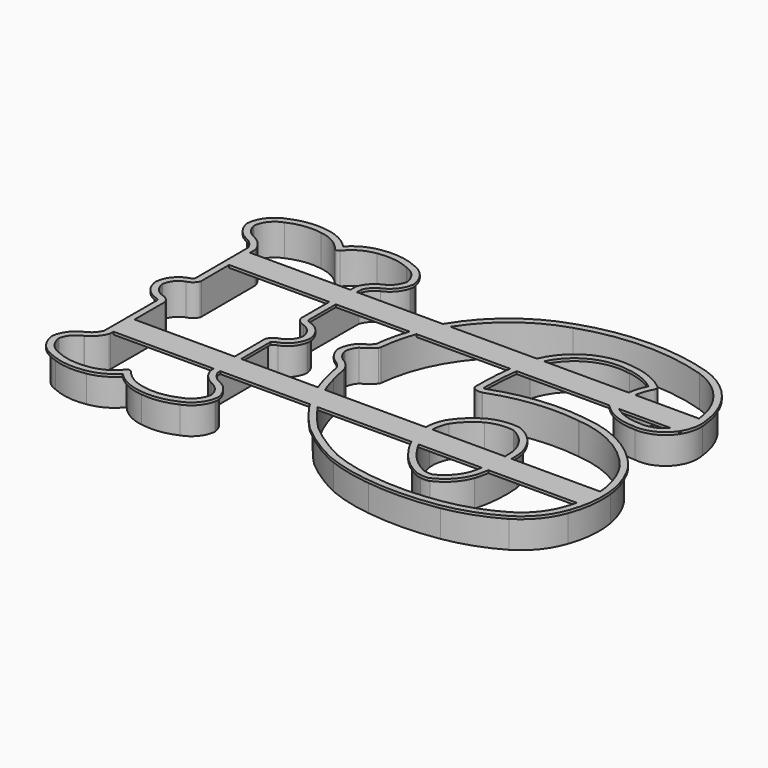
from build123d import *

# Parameters (mm, degrees)
BOX_W            = 173
BOX_H            = 10
BOX_DEPTH        = 1
BOX001_W         = 180
BOX001_H         = 10
BOX001_DEPTH     = 1
EXTRUDE_DEPTH    = 12
EXTRUDE001_DEPTH = 1


with BuildPart() as box:
    # Box → Box (new body)
    with BuildSketch(Plane(origin=(-85, 22, -1), x_dir=(1, 0, 0), z_dir=(0, 0, 1))):
        with Locations((86.5, 5)):
            Rectangle(BOX_W, BOX_H)
    extrude(amount=BOX_DEPTH)


with BuildPart() as box001:
    # Box001 → Box001 (new body)
    with BuildSketch(Plane(origin=(-85, -33, -1), x_dir=(1, 0, 0), z_dir=(0, 0, 1))):
        with Locations((90, 5)):
            Rectangle(BOX001_W, BOX001_H)
    extrude(amount=BOX001_DEPTH)


with BuildPart() as thin_wall:
    # Offset2D → Extrude (new body)
    with BuildSketch(Plane(origin=(-64.42601, 0, 0), x_dir=(0, 1, 0), z_dir=(0, 0, 1))):
        with BuildLine():
            ThreePointArc((34.44195, -20.33115), (37.326746, -22.045265), (39.397914, -24.685436))
            ThreePointArc((39.397914, -24.685436), (42.134283, -28.436695), (46.370136, -30.33859))
            ThreePointArc((46.370136, -30.33859), (51.522855, -28.261449), (54.75564, -23.74325))
            ThreePointArc((54.75564, -23.74325), (56.629485, -17.231752), (56.451589, -10.458328))
            ThreePointArc((56.451589, -10.458328), (54.510608, -4.646316), (50.515781, 0))
            ThreePointArc((50.515781, 0), (54.510608, 4.646316), (56.451589, 10.458328))
            ThreePointArc((56.451589, 10.458328), (56.629485, 17.231751), (54.75564, 23.74325))
            ThreePointArc((54.75564, 23.74325), (51.522855, 28.261449), (46.370136, 30.33859))
            ThreePointArc((46.370136, 30.33859), (42.134283, 28.436695), (39.397914, 24.685436))
            ThreePointArc((39.397914, 24.685436), (37.326746, 22.045265), (34.44195, 20.33115))
            Line((34.44195, 20.33115), (8.720118, 20.269909))
            ThreePointArc((8.720118, 20.269909), (7.488615, 21.254255), (6.831381, 22.687286))
            ThreePointArc((6.831381, 22.687286), (4.220712, 26.404715), (0, 28.084138))
            ThreePointArc((0, 28.084138), (-4.220712, 26.404715), (-6.831381, 22.687286))
            ThreePointArc((-6.831381, 22.687286), (-7.488615, 21.254255), (-8.720118, 20.269909))
            Line((-8.720118, 20.269909), (-34.44195, 20.33115))
            ThreePointArc((-34.44195, 20.33115), (-37.326746, 22.045265), (-39.397915, 24.685436))
            ThreePointArc((-39.397915, 24.685436), (-42.134283, 28.436695), (-46.370136, 30.33859))
            ThreePointArc((-46.370136, 30.33859), (-51.522855, 28.261449), (-54.75564, 23.74325))
            ThreePointArc((-54.75564, 23.74325), (-56.629485, 17.231751), (-56.451589, 10.458328))
            ThreePointArc((-56.451589, 10.458328), (-54.510608, 4.646316), (-50.515781, 0))
            ThreePointArc((-50.515781, 0), (-54.510608, -4.646316), (-56.451589, -10.458328))
            ThreePointArc((-56.451589, -10.458328), (-56.629485, -17.231752), (-54.75564, -23.74325))
            ThreePointArc((-54.75564, -23.74325), (-51.522855, -28.261449), (-46.370136, -30.33859))
            ThreePointArc((-46.370136, -30.33859), (-42.134283, -28.436695), (-39.397915, -24.685436))
            ThreePointArc((-39.397915, -24.685436), (-37.326746, -22.045265), (-34.44195, -20.33115))
            Line((-34.44195, -20.33115), (-8.720118, -20.269909))
            ThreePointArc((-8.720118, -20.269909), (-7.488615, -21.254255), (-6.831381, -22.687286))
            ThreePointArc((-6.831381, -22.687286), (-4.220711, -26.404715), (0, -28.084138))
            ThreePointArc((0, -28.084138), (4.220711, -26.404715), (6.831381, -22.687286))
            ThreePointArc((6.831381, -22.687286), (7.488615, -21.254254), (8.720119, -20.269909))
            Line((8.720119, -20.269909), (34.44195, -20.33115))
        make_face()
        with BuildLine():
            ThreePointArc((40.506381, -24.107679), (38.151788, -21.106219), (34.872227, -19.157539))
            ThreePointArc((34.872227, -19.157539), (34.661918, -19.100656), (34.444926, -19.081153))
            Line((34.444926, -19.081153), (8.723095, -19.019912))
            ThreePointArc((8.723095, -19.019912), (8.448125, -19.04986), (8.186472, -19.139545))
            ThreePointArc((8.186472, -19.139545), (6.530874, -20.45011), (5.623524, -22.356756))
            ThreePointArc((5.623524, -22.356756), (3.46238, -25.410751), (0, -26.828267))
            ThreePointArc((0, -26.828267), (-3.46238, -25.410751), (-5.623524, -22.356756))
            ThreePointArc((-5.623524, -22.356756), (-6.530874, -20.45011), (-8.186471, -19.139546))
            ThreePointArc((-8.186471, -19.139546), (-8.448124, -19.04986), (-8.723094, -19.019912))
            Line((-8.723094, -19.019912), (-34.444926, -19.081153))
            ThreePointArc((-34.444926, -19.081153), (-34.661918, -19.100656), (-34.872227, -19.157539))
            ThreePointArc((-34.872227, -19.157539), (-38.151788, -21.106219), (-40.506381, -24.107679))
            ThreePointArc((-40.506381, -24.107679), (-40.536345, -24.169224), (-40.562896, -24.232317))
            ThreePointArc((-40.562896, -24.232317), (-42.857822, -27.413532), (-46.410382, -29.076698))
            ThreePointArc((-46.410382, -29.076698), (-50.815054, -27.227335), (-53.576274, -23.32901))
            ThreePointArc((-53.576274, -23.32901), (-53.597427, -23.273099), (-53.62123, -23.218263))
            ThreePointArc((-53.62123, -23.218263), (-55.389548, -17.073462), (-55.22167, -10.681486))
            ThreePointArc((-55.22167, -10.681486), (-55.216371, -10.649998), (-55.211879, -10.618386))
            ThreePointArc((-55.211879, -10.618386), (-53.423501, -5.263323), (-49.742753, -0.982307))
            ThreePointArc((-49.742753, -0.982307), (-49.265781, 0), (-49.742753, 0.982307))
            ThreePointArc((-49.742753, 0.982307), (-53.423501, 5.263323), (-55.211879, 10.618386))
            ThreePointArc((-55.211879, 10.618386), (-55.216371, 10.649998), (-55.22167, 10.681486))
            ThreePointArc((-55.22167, 10.681486), (-55.389548, 17.073462), (-53.62123, 23.218263))
            ThreePointArc((-53.62123, 23.218263), (-53.597427, 23.273099), (-53.576274, 23.32901))
            ThreePointArc((-53.576274, 23.32901), (-50.815054, 27.227335), (-46.410382, 29.076698))
            ThreePointArc((-46.410382, 29.076698), (-42.857822, 27.413532), (-40.562896, 24.232317))
            ThreePointArc((-40.562896, 24.232317), (-40.536345, 24.169224), (-40.506381, 24.107679))
            ThreePointArc((-40.506381, 24.107679), (-38.151788, 21.106219), (-34.872227, 19.157539))
            ThreePointArc((-34.872227, 19.157539), (-34.661918, 19.100656), (-34.444926, 19.081153))
            Line((-34.444926, 19.081153), (-8.723094, 19.019913))
            ThreePointArc((-8.723094, 19.019913), (-8.448124, 19.04986), (-8.186471, 19.139546))
            ThreePointArc((-8.186471, 19.139546), (-6.530874, 20.45011), (-5.623524, 22.356756))
            ThreePointArc((-5.623524, 22.356756), (-3.462381, 25.410751), (0, 26.828267))
            ThreePointArc((0, 26.828267), (3.462381, 25.410751), (5.623524, 22.356756))
            ThreePointArc((5.623524, 22.356756), (6.530874, 20.45011), (8.186471, 19.139546))
            ThreePointArc((8.186471, 19.139546), (8.448124, 19.04986), (8.723094, 19.019913))
            Line((8.723094, 19.019913), (34.444926, 19.081153))
            ThreePointArc((34.444926, 19.081153), (34.661918, 19.100656), (34.872227, 19.157539))
            ThreePointArc((34.872227, 19.157539), (38.151788, 21.106219), (40.506381, 24.107679))
            ThreePointArc((40.506381, 24.107679), (40.536345, 24.169224), (40.562896, 24.232317))
            ThreePointArc((40.562896, 24.232317), (42.857822, 27.413532), (46.410382, 29.076698))
            ThreePointArc((46.410382, 29.076698), (50.815054, 27.227335), (53.576274, 23.32901))
            ThreePointArc((53.576274, 23.32901), (53.597427, 23.273099), (53.62123, 23.218263))
            ThreePointArc((53.62123, 23.218263), (55.389548, 17.073462), (55.22167, 10.681486))
            ThreePointArc((55.22167, 10.681486), (55.216371, 10.649998), (55.211879, 10.618386))
            ThreePointArc((55.211879, 10.618386), (53.423501, 5.263323), (49.742753, 0.982307))
            ThreePointArc((49.742753, 0.982307), (49.265781, 0), (49.742753, -0.982307))
            ThreePointArc((49.742753, -0.982307), (53.423501, -5.263323), (55.211879, -10.618386))
            ThreePointArc((55.211879, -10.618386), (55.216371, -10.649998), (55.22167, -10.681486))
            ThreePointArc((55.22167, -10.681486), (55.389548, -17.073462), (53.62123, -23.218263))
            ThreePointArc((53.62123, -23.218263), (53.597427, -23.273099), (53.576274, -23.32901))
            ThreePointArc((53.576274, -23.32901), (50.815054, -27.227335), (46.410382, -29.076698))
            ThreePointArc((46.410382, -29.076698), (42.857822, -27.413532), (40.562896, -24.232317))
            ThreePointArc((40.562896, -24.232317), (40.536345, -24.169224), (40.506381, -24.107679))
        make_face(mode=Mode.SUBTRACT)
        with BuildLine():
            ThreePointArc((5.514971, -43.551434), (2.957715, -41.918048), (0, -41.240237))
            ThreePointArc((0, -41.240237), (-3.343564, -42.631595), (-5.808735, -45.28456))
            ThreePointArc((-5.808735, -45.28456), (-7.542924, -47.276424), (-9.871154, -48.52313))
            ThreePointArc((-9.871154, -48.52313), (-13.145107, -49.139081), (-16.376197, -49.950385))
            ThreePointArc((-16.376197, -49.950385), (-25.914654, -53.306642), (-34.710733, -58.29419))
            ThreePointArc((-34.710733, -58.29419), (-39.666336, -62.112473), (-44.306226, -66.308747))
            ThreePointArc((-44.306226, -66.308747), (-49.913506, -73.791926), (-54.516447, -81.931489))
            ThreePointArc((-54.516447, -81.931489), (-57.238473, -90.187298), (-58.853068, -98.729012))
            ThreePointArc((-58.853068, -98.729012), (-59.622042, -112.205108), (-58.41392, -125.648951))
            ThreePointArc((-58.41392, -125.648951), (-55.738154, -136.129959), (-51.222842, -145.95967))
            ThreePointArc((-51.222842, -145.95967), (-45.276603, -152.84887), (-37.290762, -157.21295))
            ThreePointArc((-37.290762, -157.21295), (-28.299977, -159.218241), (-19.09514, -158.862755))
            ThreePointArc((-19.09514, -158.862755), (-12.271791, -156.868215), (-5.985813, -153.548162))
            ThreePointArc((-5.985813, -153.548162), (4.949402, -140.840662), (9.82007, -124.798964))
            ThreePointArc((9.82007, -124.798964), (10.080296, -107.471052), (6.069544, -90.61169))
            ThreePointArc((6.069544, -90.61169), (6.089355, -89.35398), (6.572424, -88.19257))
            ThreePointArc((6.572424, -88.19257), (17.62463, -88.610946), (28.578199, -90.142497))
            ThreePointArc((28.578199, -90.142497), (41.444393, -99.454234), (44.737935, -114.991286))
            ThreePointArc((44.737935, -114.991286), (42.998519, -122.234358), (39.190359, -128.636357))
            ThreePointArc((39.190359, -128.636357), (31.023674, -126.032255), (22.489372, -126.833366))
            ThreePointArc((22.489372, -126.833366), (18.688263, -132.441672), (17.363273, -139.085912))
            ThreePointArc((17.363273, -139.085912), (21.102119, -149.846355), (32.06971, -152.924998))
            ThreePointArc((32.06971, -152.924998), (46.72935, -147.019587), (55.892228, -134.142453))
            ThreePointArc((55.892228, -134.142453), (59.506872, -109.818394), (55.3554, -85.580185))
            ThreePointArc((55.3554, -85.580185), (37.785771, -59.802647), (8.904615, -48.010609))
            ThreePointArc((8.904615, -48.010609), (6.977576, -45.957541), (5.514971, -43.551434))
        make_face()
        with BuildLine():
            ThreePointArc((0.080059, -42.497772), (2.435881, -43.054812), (4.498998, -44.321202))
            ThreePointArc((4.498998, -44.321202), (6.061787, -46.81742), (8.086724, -48.955888))
            ThreePointArc((8.086724, -48.955888), (8.412976, -49.159865), (8.78581, -49.25495))
            ThreePointArc((8.78581, -49.25495), (36.999696, -60.774545), (54.163396, -85.956519))
            ThreePointArc((54.163396, -85.956519), (54.167686, -85.969844), (54.172124, -85.983121))
            ThreePointArc((54.172124, -85.983121), (58.256852, -109.823511), (54.705576, -133.74918))
            ThreePointArc((54.705576, -133.74918), (45.948688, -146.043297), (31.947101, -151.681025))
            ThreePointArc((31.947101, -151.681025), (31.879239, -151.689595), (31.811947, -151.701863))
            ThreePointArc((31.811947, -151.701863), (21.95875, -148.936035), (18.599801, -139.268939))
            ThreePointArc((18.599801, -139.268939), (18.610017, -139.176073), (18.613269, -139.082703))
            ThreePointArc((18.613269, -139.082703), (19.783038, -133.06555), (23.1483, -127.942123))
            ThreePointArc((23.1483, -127.942123), (31.042778, -127.292173), (38.580342, -129.727402))
            ThreePointArc((38.580342, -129.727402), (39.422689, -129.864576), (40.156735, -129.429211))
            ThreePointArc((40.156735, -129.429211), (44.147813, -122.726422), (45.979447, -115.143467))
            ThreePointArc((45.979447, -115.143467), (42.479719, -98.753447), (28.898057, -88.934113))
            ThreePointArc((28.898057, -88.934113), (28.856003, -88.923757), (28.813614, -88.914865))
            ThreePointArc((28.813614, -88.914865), (17.73496, -87.365825), (6.556542, -86.942671))
            ThreePointArc((6.556542, -86.942671), (5.973072, -87.09563), (5.529163, -87.504016))
            ThreePointArc((5.529163, -87.504016), (4.865518, -89.099572), (4.838301, -90.827426))
            ThreePointArc((4.838301, -90.827426), (4.863391, -90.939858), (4.898724, -91.049503))
            ThreePointArc((4.898724, -91.049503), (8.837751, -107.607366), (8.582179, -124.6254))
            ThreePointArc((8.582179, -124.6254), (8.578055, -124.657901), (8.574785, -124.690499))
            ThreePointArc((8.574785, -124.690499), (3.863924, -140.220443), (-6.711972, -152.529862))
            ThreePointArc((-6.711972, -152.529862), (-12.755782, -155.715608), (-19.313548, -157.631941))
            ThreePointArc((-19.313548, -157.631941), (-28.192081, -157.972896), (-36.863937, -156.03808))
            ThreePointArc((-36.863937, -156.03808), (-36.880211, -156.032294), (-36.896562, -156.026735))
            ThreePointArc((-36.896562, -156.026735), (-44.488306, -151.878766), (-50.142353, -145.331098))
            ThreePointArc((-50.142353, -145.331098), (-54.561071, -135.709256), (-57.179813, -125.450255))
            ThreePointArc((-57.179813, -125.450255), (-57.180143, -125.448218), (-57.180476, -125.446182))
            ThreePointArc((-57.180476, -125.446182), (-58.372208, -112.184719), (-57.613666, -98.891442))
            ThreePointArc((-57.613666, -98.891442), (-57.612922, -98.885662), (-57.612206, -98.879878))
            ThreePointArc((-57.612206, -98.879878), (-56.033321, -90.51978), (-53.373117, -82.438478))
            ThreePointArc((-53.373117, -82.438478), (-48.87104, -74.481721), (-43.392154, -67.163217))
            ThreePointArc((-43.392154, -67.163217), (-38.846691, -63.056539), (-33.993786, -59.318178))
            ThreePointArc((-33.993786, -59.318178), (-25.393323, -54.442745), (-16.067432, -51.16165))
            ThreePointArc((-16.067432, -51.16165), (-16.05145, -51.157464), (-16.035526, -51.153067))
            ThreePointArc((-16.035526, -51.153067), (-12.877219, -50.360039), (-9.677017, -49.757962))
            ThreePointArc((-9.677017, -49.757962), (-9.582439, -49.739331), (-9.489578, -49.713466))
            ThreePointArc((-9.489578, -49.713466), (-6.763724, -48.253842), (-4.733363, -45.9218))
            ThreePointArc((-4.733363, -45.9218), (-4.733334, -45.921752), (-4.733306, -45.921703))
            ThreePointArc((-4.733306, -45.921703), (-2.689412, -43.699729), (0.080059, -42.497772))
        make_face(mode=Mode.SUBTRACT)
        with BuildLine():
            ThreePointArc((-18.737257, -122.920742), (-11.689584, -119.745706), (-7.035652, -113.573879))
            ThreePointArc((-7.035652, -113.573879), (-6.980276, -108.138765), (-8.565392, -102.939636))
            ThreePointArc((-8.565392, -102.939636), (-11.925547, -98.37556), (-16.262675, -94.727169))
            ThreePointArc((-16.262675, -94.727169), (-20.280659, -93.3008), (-24.540961, -93.131851))
            ThreePointArc((-24.540961, -93.131851), (-31.392517, -94.964227), (-37.586884, -98.41839))
            ThreePointArc((-37.586884, -98.41839), (-42.724247, -102.83945), (-46.44076, -108.507413))
            ThreePointArc((-46.44076, -108.507413), (-46.779949, -110.442144), (-46.792858, -112.40634))
            ThreePointArc((-46.792858, -112.40634), (-42.843484, -118.000904), (-36.922913, -121.442351))
            ThreePointArc((-36.922913, -121.442351), (-27.895974, -122.992046), (-18.737257, -122.920742))
        make_face()
        with BuildLine():
            ThreePointArc((-8.245906, -113.226345), (-12.508322, -118.79976), (-18.905853, -121.681206))
            ThreePointArc((-18.905853, -121.681206), (-27.801994, -121.745562), (-36.570489, -120.242581))
            ThreePointArc((-36.570489, -120.242581), (-41.935454, -117.137138), (-45.560162, -112.10841))
            ThreePointArc((-45.560162, -112.10841), (-45.530917, -110.510238), (-45.26004, -108.934916))
            ThreePointArc((-45.26004, -108.934916), (-41.746179, -103.620138), (-36.911621, -99.470303))
            ThreePointArc((-36.911621, -99.470303), (-36.879509, -99.448983), (-36.84807, -99.426683))
            ThreePointArc((-36.84807, -99.426683), (-30.930843, -96.125877), (-24.386074, -94.372337))
            ThreePointArc((-24.386074, -94.372337), (-20.536247, -94.52456), (-16.90171, -95.803029))
            ThreePointArc((-16.90171, -95.803029), (-12.832779, -99.235492), (-9.673391, -103.519913))
            ThreePointArc((-9.673391, -103.519913), (-8.225054, -108.265095), (-8.245906, -113.226345))
        make_face(mode=Mode.SUBTRACT)
    extrude(amount=-EXTRUDE_DEPTH)

    # Fusion: union Box, Box001
    add(box.part)
    add(box001.part)


with BuildPart() as cutter:
    # Offset2D001 → Extrude001 (new body)
    with BuildSketch(Plane(origin=(-64.42601, 0, 0), x_dir=(0, 1, 0), z_dir=(0, 0, 1))):
        with BuildLine():
            ThreePointArc((34.210214, -21.580601), (36.557342, -23.03366), (38.259731, -25.206736))
            ThreePointArc((38.259731, -25.206736), (41.375523, -29.430659), (46.167603, -31.572073))
            ThreePointArc((46.167603, -31.572073), (46.330873, -31.587973), (46.49482, -31.582356))
            ThreePointArc((46.49482, -31.582356), (52.271708, -29.262718), (55.91471, -24.214779))
            ThreePointArc((55.91471, -24.214779), (57.871134, -17.376599), (57.687159, -10.266434))
            ThreePointArc((57.687159, -10.266434), (55.947672, -4.677987), (52.430145, 0))
            ThreePointArc((52.430145, 0), (55.947672, 4.677987), (57.687159, 10.266434))
            ThreePointArc((57.687159, 10.266434), (57.871134, 17.376599), (55.91471, 24.214779))
            ThreePointArc((55.91471, 24.214779), (52.271708, 29.262718), (46.49482, 31.582356))
            ThreePointArc((46.49482, 31.582356), (46.330873, 31.587973), (46.167603, 31.572073))
            ThreePointArc((46.167603, 31.572073), (41.375523, 29.430659), (38.259731, 25.206736))
            ThreePointArc((38.259731, 25.206736), (36.557342, 23.03366), (34.210214, 21.580601))
            Line((34.210214, 21.580601), (9.033034, 21.520658))
            ThreePointArc((9.033034, 21.520658), (8.3991, 22.125166), (8.057259, 22.93167))
            ThreePointArc((8.057259, 22.93167), (8.039512, 23.008096), (8.017006, 23.083258))
            ThreePointArc((8.017006, 23.083258), (4.99559, 27.385563), (0.110818, 29.329216))
            ThreePointArc((0.110818, 29.329216), (0, 29.334138), (-0.110818, 29.329216))
            ThreePointArc((-0.110818, 29.329216), (-4.99559, 27.385563), (-8.017006, 23.083258))
            ThreePointArc((-8.017006, 23.083258), (-8.039512, 23.008096), (-8.057259, 22.93167))
            ThreePointArc((-8.057259, 22.93167), (-8.3991, 22.125166), (-9.033034, 21.520658))
            Line((-9.033034, 21.520658), (-34.210214, 21.580601))
            ThreePointArc((-34.210214, 21.580601), (-36.557342, 23.03366), (-38.259731, 25.206736))
            ThreePointArc((-38.259731, 25.206736), (-41.375523, 29.430659), (-46.167603, 31.572073))
            ThreePointArc((-46.167603, 31.572073), (-46.330873, 31.587973), (-46.49482, 31.582356))
            ThreePointArc((-46.49482, 31.582356), (-52.271708, 29.262718), (-55.91471, 24.214779))
            ThreePointArc((-55.91471, 24.214779), (-57.871134, 17.376599), (-57.687159, 10.266434))
            ThreePointArc((-57.687159, 10.266434), (-55.947672, 4.677987), (-52.430145, 0))
            ThreePointArc((-52.430145, 0), (-55.947672, -4.677987), (-57.687159, -10.266434))
            ThreePointArc((-57.687159, -10.266434), (-57.871134, -17.376599), (-55.91471, -24.214779))
            ThreePointArc((-55.91471, -24.214779), (-52.271708, -29.262718), (-46.49482, -31.582356))
            ThreePointArc((-46.49482, -31.582356), (-46.330873, -31.587973), (-46.167603, -31.572073))
            ThreePointArc((-46.167603, -31.572073), (-41.375523, -29.430659), (-38.259731, -25.206736))
            ThreePointArc((-38.259731, -25.206736), (-36.557342, -23.03366), (-34.210214, -21.580601))
            Line((-34.210214, -21.580601), (-9.033034, -21.520657))
            ThreePointArc((-9.033034, -21.520657), (-8.399099, -22.125166), (-8.057259, -22.93167))
            ThreePointArc((-8.057259, -22.93167), (-8.039512, -23.008096), (-8.017006, -23.083258))
            ThreePointArc((-8.017006, -23.083258), (-4.99559, -27.385563), (-0.110818, -29.329216))
            ThreePointArc((-0.110818, -29.329216), (0, -29.334138), (0.110818, -29.329216))
            ThreePointArc((0.110818, -29.329216), (4.99559, -27.385563), (8.017006, -23.083258))
            ThreePointArc((8.017006, -23.083258), (8.039512, -23.008096), (8.057259, -22.93167))
            ThreePointArc((8.057259, -22.93167), (8.3991, -22.125166), (9.033034, -21.520657))
            Line((9.033034, -21.520657), (34.210214, -21.580601))
        make_face()
        with BuildLine():
            ThreePointArc((39.397914, -24.685436), (37.326746, -22.045265), (34.44195, -20.33115))
            Line((34.44195, -20.33115), (8.720119, -20.269909))
            ThreePointArc((8.720119, -20.269909), (7.488615, -21.254254), (6.831381, -22.687286))
            ThreePointArc((6.831381, -22.687286), (4.220711, -26.404715), (0, -28.084138))
            ThreePointArc((0, -28.084138), (-4.220711, -26.404715), (-6.831381, -22.687286))
            ThreePointArc((-6.831381, -22.687286), (-7.488615, -21.254255), (-8.720118, -20.269909))
            Line((-8.720118, -20.269909), (-34.44195, -20.33115))
            ThreePointArc((-34.44195, -20.33115), (-37.326746, -22.045265), (-39.397915, -24.685436))
            ThreePointArc((-39.397915, -24.685436), (-42.134283, -28.436695), (-46.370136, -30.33859))
            ThreePointArc((-46.370136, -30.33859), (-51.522855, -28.261449), (-54.75564, -23.74325))
            ThreePointArc((-54.75564, -23.74325), (-56.629485, -17.231752), (-56.451589, -10.458328))
            ThreePointArc((-56.451589, -10.458328), (-54.510608, -4.646316), (-50.515781, 0))
            ThreePointArc((-50.515781, 0), (-54.510608, 4.646316), (-56.451589, 10.458328))
            ThreePointArc((-56.451589, 10.458328), (-56.629485, 17.231751), (-54.75564, 23.74325))
            ThreePointArc((-54.75564, 23.74325), (-51.522855, 28.261449), (-46.370136, 30.33859))
            ThreePointArc((-46.370136, 30.33859), (-42.134283, 28.436695), (-39.397915, 24.685436))
            ThreePointArc((-39.397915, 24.685436), (-37.326746, 22.045265), (-34.44195, 20.33115))
            Line((-34.44195, 20.33115), (-8.720118, 20.269909))
            ThreePointArc((-8.720118, 20.269909), (-7.488615, 21.254255), (-6.831381, 22.687286))
            ThreePointArc((-6.831381, 22.687286), (-4.220712, 26.404715), (0, 28.084138))
            ThreePointArc((0, 28.084138), (4.220712, 26.404715), (6.831381, 22.687286))
            ThreePointArc((6.831381, 22.687286), (7.488615, 21.254255), (8.720118, 20.269909))
            Line((8.720118, 20.269909), (34.44195, 20.33115))
            ThreePointArc((34.44195, 20.33115), (37.326746, 22.045265), (39.397914, 24.685436))
            ThreePointArc((39.397914, 24.685436), (42.134283, 28.436695), (46.370136, 30.33859))
            ThreePointArc((46.370136, 30.33859), (51.522855, 28.261449), (54.75564, 23.74325))
            ThreePointArc((54.75564, 23.74325), (56.629485, 17.231751), (56.451589, 10.458328))
            ThreePointArc((56.451589, 10.458328), (54.510608, 4.646316), (50.515781, 0))
            ThreePointArc((50.515781, 0), (54.510608, -4.646316), (56.451589, -10.458328))
            ThreePointArc((56.451589, -10.458328), (56.629485, -17.231752), (54.75564, -23.74325))
            ThreePointArc((54.75564, -23.74325), (51.522855, -28.261449), (46.370136, -30.33859))
            ThreePointArc((46.370136, -30.33859), (42.134283, -28.436695), (39.397914, -24.685436))
        make_face(mode=Mode.SUBTRACT)
        with BuildLine():
            ThreePointArc((6.357808, -42.628327), (3.440851, -40.765191), (0.067107, -39.99204))
            ThreePointArc((0.067107, -39.99204), (-0.079167, -39.992747), (-0.224357, -40.010537))
            ThreePointArc((-0.224357, -40.010537), (-4.05764, -41.605634), (-6.883957, -44.647067))
            ThreePointArc((-6.883957, -44.647067), (-8.286314, -46.270235), (-10.165737, -47.304182))
            ThreePointArc((-10.165737, -47.304182), (-13.454585, -47.927266), (-16.700969, -48.743202))
            ThreePointArc((-16.700969, -48.743202), (-26.439936, -52.172338), (-35.421229, -57.265747))
            ThreePointArc((-35.421229, -57.265747), (-35.427675, -57.27023), (-35.434093, -57.274754))
            ThreePointArc((-35.434093, -57.274754), (-40.467647, -61.153097), (-45.180521, -65.415378))
            ThreePointArc((-45.180521, -65.415378), (-45.219365, -65.455122), (-45.256405, -65.496553))
            ThreePointArc((-45.256405, -65.496553), (-50.95986, -73.108082), (-55.641751, -81.387254))
            ThreePointArc((-55.641751, -81.387254), (-55.659133, -81.424764), (-55.675264, -81.462828))
            ThreePointArc((-55.675264, -81.462828), (-58.448059, -89.872005), (-60.093226, -98.572354))
            ThreePointArc((-60.093226, -98.572354), (-60.871845, -112.227376), (-59.647699, -125.849688))
            ThreePointArc((-59.647699, -125.849688), (-56.916135, -136.548124), (-52.307038, -146.581777))
            ThreePointArc((-52.307038, -146.581777), (-52.303337, -146.588183), (-52.299599, -146.594567))
            ThreePointArc((-52.299599, -146.594567), (-46.068783, -153.815835), (-37.701407, -158.393694))
            ThreePointArc((-37.701407, -158.393694), (-28.40428, -160.46391), (-18.88659, -160.095235))
            ThreePointArc((-18.88659, -160.095235), (-18.87674, -160.093527), (-18.866905, -160.091741))
            ThreePointArc((-18.866905, -160.091741), (-11.80216, -158.026639), (-5.293797, -154.589129))
            ThreePointArc((-5.293797, -154.589129), (-5.260019, -154.565867), (-5.227023, -154.541508))
            ThreePointArc((-5.227023, -154.541508), (6.03685, -141.457282), (11.06249, -124.940177))
            ThreePointArc((11.06249, -124.940177), (11.328114, -107.382954), (7.285671, -90.295376))
            ThreePointArc((7.285671, -90.295376), (7.276512, -89.861695), (7.356907, -89.435433))
            ThreePointArc((7.356907, -89.435433), (17.87523, -89.888659), (28.299728, -91.361881))
            ThreePointArc((28.299728, -91.361881), (40.408158, -100.153664), (43.503668, -114.793586))
            ThreePointArc((43.503668, -114.793586), (43.497229, -114.839135), (43.492471, -114.884889))
            ThreePointArc((43.492471, -114.884889), (42.026913, -121.290682), (38.851665, -127.043929))
            ThreePointArc((38.851665, -127.043929), (30.623735, -124.738193), (22.126269, -125.637266))
            ThreePointArc((22.126269, -125.637266), (21.851814, -125.758182), (21.614061, -125.940992))
            ThreePointArc((21.614061, -125.940992), (17.553114, -131.916361), (16.113274, -138.996133))
            ThreePointArc((16.113274, -138.996133), (20.254533, -150.76518), (32.259545, -154.162266))
            ThreePointArc((32.259545, -154.162266), (47.529792, -147.980256), (57.073258, -134.551928))
            ThreePointArc((57.073258, -134.551928), (57.078803, -134.535569), (57.084123, -134.519134))
            ThreePointArc((57.084123, -134.519134), (60.756872, -109.811564), (56.54318, -85.190478))
            ThreePointArc((56.54318, -85.190478), (38.726249, -58.95609), (9.433177, -46.806928))
            ThreePointArc((9.433177, -46.806928), (7.856543, -45.045757), (6.644625, -43.016287))
            ThreePointArc((6.644625, -43.016287), (6.520112, -42.808337), (6.357808, -42.628327))
        make_face()
        with BuildLine():
            ThreePointArc((0, -41.240237), (2.957715, -41.918048), (5.514971, -43.551434))
            ThreePointArc((5.514971, -43.551434), (6.977576, -45.957541), (8.904615, -48.010609))
            ThreePointArc((8.904615, -48.010609), (37.785771, -59.802647), (55.3554, -85.580185))
            ThreePointArc((55.3554, -85.580185), (59.506872, -109.818394), (55.892228, -134.142453))
            ThreePointArc((55.892228, -134.142453), (46.72935, -147.019587), (32.06971, -152.924998))
            ThreePointArc((32.06971, -152.924998), (21.102119, -149.846355), (17.363273, -139.085912))
            ThreePointArc((17.363273, -139.085912), (18.688263, -132.441672), (22.489372, -126.833366))
            ThreePointArc((22.489372, -126.833366), (31.023674, -126.032255), (39.190359, -128.636357))
            ThreePointArc((39.190359, -128.636357), (42.998519, -122.234358), (44.737935, -114.991286))
            ThreePointArc((44.737935, -114.991286), (41.444393, -99.454234), (28.578199, -90.142497))
            ThreePointArc((28.578199, -90.142497), (17.62463, -88.610946), (6.572424, -88.19257))
            ThreePointArc((6.572424, -88.19257), (6.089355, -89.35398), (6.069544, -90.61169))
            ThreePointArc((6.069544, -90.61169), (10.080296, -107.471052), (9.82007, -124.798964))
            ThreePointArc((9.82007, -124.798964), (4.949402, -140.840662), (-5.985813, -153.548162))
            ThreePointArc((-5.985813, -153.548162), (-12.271791, -156.868215), (-19.09514, -158.862755))
            ThreePointArc((-19.09514, -158.862755), (-28.299977, -159.218241), (-37.290762, -157.21295))
            ThreePointArc((-37.290762, -157.21295), (-45.276603, -152.84887), (-51.222842, -145.95967))
            ThreePointArc((-51.222842, -145.95967), (-55.738154, -136.129959), (-58.41392, -125.648951))
            ThreePointArc((-58.41392, -125.648951), (-59.622042, -112.205108), (-58.853068, -98.729012))
            ThreePointArc((-58.853068, -98.729012), (-57.238473, -90.187298), (-54.516447, -81.931489))
            ThreePointArc((-54.516447, -81.931489), (-49.913506, -73.791926), (-44.306226, -66.308747))
            ThreePointArc((-44.306226, -66.308747), (-39.666336, -62.112473), (-34.710733, -58.29419))
            ThreePointArc((-34.710733, -58.29419), (-25.914654, -53.306642), (-16.376197, -49.950385))
            ThreePointArc((-16.376197, -49.950385), (-13.145107, -49.139081), (-9.871154, -48.52313))
            ThreePointArc((-9.871154, -48.52313), (-7.542924, -47.276424), (-5.808735, -45.28456))
            ThreePointArc((-5.808735, -45.28456), (-3.343564, -42.631595), (0, -41.240237))
        make_face(mode=Mode.SUBTRACT)
        with BuildLine():
            ThreePointArc((-18.52262, -124.152177), (-10.90945, -120.722379), (-5.882091, -114.05533))
            ThreePointArc((-5.882091, -114.05533), (-5.834097, -113.9185), (-5.802271, -113.777032))
            ThreePointArc((-5.802271, -113.777032), (-5.743012, -107.960784), (-7.439283, -102.397069))
            ThreePointArc((-7.439283, -102.397069), (-7.458154, -102.359529), (-7.478276, -102.322644))
            ThreePointArc((-7.478276, -102.322644), (-11.01352, -97.520746), (-15.576645, -93.682247))
            ThreePointArc((-15.576645, -93.682247), (-15.62386, -93.652733), (-15.672342, -93.62535))
            ThreePointArc((-15.672342, -93.62535), (-20.044122, -92.073384), (-24.679558, -91.889558))
            ThreePointArc((-24.679558, -91.889558), (-24.696029, -91.891507), (-24.712474, -91.893674))
            ThreePointArc((-24.712474, -91.893674), (-31.844134, -93.798509), (-38.294641, -97.387371))
            ThreePointArc((-38.294641, -97.387371), (-43.676503, -102.029472), (-47.571453, -107.974463))
            ThreePointArc((-47.571453, -107.974463), (-47.61551, -108.080255), (-47.649693, -108.189636))
            ThreePointArc((-47.649693, -108.189636), (-48.024883, -110.329719), (-48.039162, -112.502393))
            ThreePointArc((-48.039162, -112.502393), (-48.0075, -112.701543), (-47.944227, -112.893011))
            ThreePointArc((-47.944227, -112.893011), (-43.687559, -118.922879), (-37.306318, -122.632099))
            ThreePointArc((-37.306318, -122.632099), (-37.274761, -122.64181), (-37.242957, -122.650685))
            ThreePointArc((-37.242957, -122.650685), (-27.997258, -124.237936), (-18.616587, -124.164904))
            ThreePointArc((-18.616587, -124.164904), (-18.569483, -124.159432), (-18.52262, -124.152177))
        make_face()
        with BuildLine():
            ThreePointArc((-7.035652, -113.573879), (-11.689584, -119.745706), (-18.737257, -122.920742))
            ThreePointArc((-18.737257, -122.920742), (-27.895974, -122.992046), (-36.922913, -121.442351))
            ThreePointArc((-36.922913, -121.442351), (-42.843484, -118.000904), (-46.792858, -112.40634))
            ThreePointArc((-46.792858, -112.40634), (-46.779949, -110.442144), (-46.44076, -108.507413))
            ThreePointArc((-46.44076, -108.507413), (-42.724247, -102.83945), (-37.586884, -98.41839))
            ThreePointArc((-37.586884, -98.41839), (-31.392517, -94.964227), (-24.540961, -93.131851))
            ThreePointArc((-24.540961, -93.131851), (-20.280659, -93.3008), (-16.262675, -94.727169))
            ThreePointArc((-16.262675, -94.727169), (-11.925547, -98.37556), (-8.565392, -102.939636))
            ThreePointArc((-8.565392, -102.939636), (-6.980276, -108.138765), (-7.035652, -113.573879))
        make_face(mode=Mode.SUBTRACT)
    extrude(amount=-EXTRUDE001_DEPTH)

    # Fusion001: union Thin Wall
    add(thin_wall.part)


solid = cutter.part
